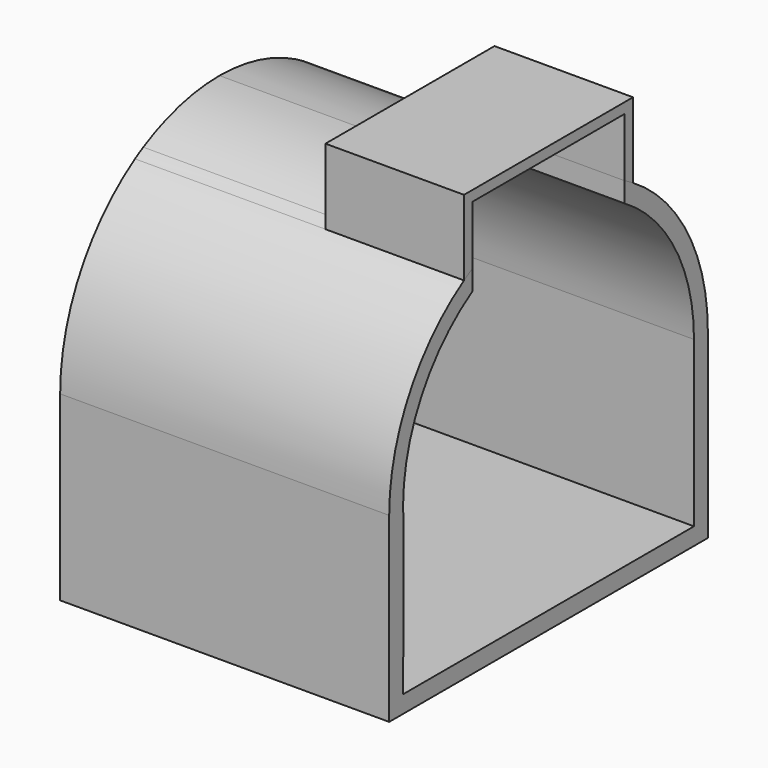
from build123d import *

# Parameters (mm, degrees)
F0_W     = 5
F0_H     = 5
F1_DEPTH = 95
F2_DEPTH = 40
F3_DEPTH = 40


with BuildPart() as f1:
    # F0 (on Right) → F1 (new body)
    with BuildSketch(Plane.YZ):
        with BuildLine():
            ThreePointArc((25.096296508, 5), (29.4604368108, 2.3000707554), (34.0479212009, 0))
            Line((34.0479212009, 0), (57.5, 0))
            ThreePointArc((57.5, 0), (46.0435607626, 1.2652461702), (35.139320225, 5))
            Line((35.139320225, 5), (25.096296508, 5))
        make_face()
        with Locations((112.5, 2.5)):
            Rectangle(F0_W, F0_H)
        with BuildLine():
            Line((5.0251261048, 5), (5, 0))
            Line((5, 0), (34.0479212009, 0))
            ThreePointArc((34.0479212009, 0), (29.4604368108, 2.3000707554), (25.096296508, 5))
            Line((25.096296508, 5), (5.0251261048, 5))
        make_face()
        with BuildLine():
            ThreePointArc((79.860679775, 5), (68.9564392374, 1.2652461702), (57.5, 0))
            Line((57.5, 0), (80.9520787991, 0))
            ThreePointArc((80.9520787991, 0), (85.5395631892, 2.3000707554), (89.903703492, 5))
            Line((89.903703492, 5), (79.860679775, 5))
        make_face()
        with BuildLine():
            ThreePointArc((89.903703492, 5), (85.5395631892, 2.3000707554), (80.9520787991, 0))
            Line((80.9520787991, 0), (110, 0))
            Line((110, 0), (110, 5))
            Line((110, 5), (89.903703492, 5))
        make_face()
        with BuildLine():
            ThreePointArc((79.860679775, 5), (68.9564392374, 1.2652461702), (57.5, 0))
            Line((57.5, 0), (80.9520787991, 0))
            ThreePointArc((80.9520787991, 0), (85.5395631892, 2.3000707554), (89.903703492, 5))
            Line((89.903703492, 5), (79.860679775, 5))
        make_face()
        with BuildLine():
            Line((110, 29.0479212009), (110, 5))
            Line((110, 5), (115, 5))
            Line((115, 5), (115, 52.5))
            ThreePointArc((115, 52.5), (113.736109396, 40.5104211917), (110, 29.0479212009))
        make_face()
        with BuildLine():
            Line((0, 52.5), (0, 5))
            Line((0, 5), (5.0251261048, 5))
            Line((5.0251261048, 5), (5.1443614689, 28.7273873123))
            ThreePointArc((5.1443614689, 28.7273873123), (1.3008042071, 40.3385694826), (0, 52.5))
        make_face()
        Polygon((0, 5), (0, 0), (5, 0), (5.0251261048, 5), align=None)
        with BuildLine():
            ThreePointArc((35.139320225, 5), (46.0435607626, 1.2652461702), (57.5, 0))
            ThreePointArc((57.5, 0), (68.9564392374, 1.2652461702), (79.860679775, 5))
            Line((79.860679775, 5), (35.139320225, 5))
        make_face()
        with BuildLine():
            ThreePointArc((27, 101.2442304278), (7.2008946402, 80.3612634315), (0, 52.5))
            ThreePointArc((0, 52.5), (1.3008042071, 40.3385694826), (5.1443614689, 28.7273873123))
            Line((5.1443614689, 28.7273873123), (5.2386949818, 47.4994002563))
            ThreePointArc((5.2386949818, 47.4994002563), (10.5049496909, 75.9033169967), (30, 97.22135955))
            Line((30, 97.22135955), (30, 102.9975246918))
            ThreePointArc((30, 102.9975246918), (28.4867528499, 102.1435442913), (27, 101.2442304278))
        make_face()
        with BuildLine():
            ThreePointArc((85, 97.22135955), (103.3257569496, 78.1173769149), (110, 52.5))
            Line((110, 52.5), (110, 29.0479212009))
            ThreePointArc((110, 29.0479212009), (113.736109396, 40.5104211917), (115, 52.5))
            ThreePointArc((115, 52.5), (107.7991053598, 80.3612634315), (88, 101.2442304278))
            ThreePointArc((88, 101.2442304278), (86.5132471501, 102.1435442913), (85, 102.9975246918))
            Line((85, 102.9975246918), (85, 97.22135955))
        make_face()
        with BuildLine():
            ThreePointArc((57.5, 110), (43.311231022, 108.2218882926), (30, 102.9975246918))
            Line((30, 102.9975246918), (43.1385933837, 102.9975246918))
            ThreePointArc((43.1385933837, 102.9975246918), (57.5, 105), (71.8614066163, 102.9975246918))
            Line((71.8614066163, 102.9975246918), (85, 102.9975246918))
            ThreePointArc((85, 102.9975246918), (71.688768978, 108.2218882926), (57.5, 110))
        make_face()
        with BuildLine():
            Line((43.1385933837, 102.9975246918), (30, 102.9975246918))
            Line((30, 102.9975246918), (30, 97.22135955))
            ThreePointArc((30, 97.22135955), (36.3709829403, 100.5605309801), (43.1385933837, 102.9975246918))
        make_face()
        with BuildLine():
            ThreePointArc((71.8614066163, 102.9975246918), (78.6290170597, 100.5605309801), (85, 97.22135955))
            Line((85, 97.22135955), (85, 102.9975246918))
            Line((85, 102.9975246918), (71.8614066163, 102.9975246918))
        make_face()
    extrude(amount=-F1_DEPTH)

    # F0 (on Right) → F3 (cut)
    with BuildSketch(Plane.YZ):
        with BuildLine():
            ThreePointArc((57.5, 110), (43.311231022, 108.2218882926), (30, 102.9975246918))
            Line((30, 102.9975246918), (43.1385933837, 102.9975246918))
            ThreePointArc((43.1385933837, 102.9975246918), (57.5, 105), (71.8614066163, 102.9975246918))
            Line((71.8614066163, 102.9975246918), (85, 102.9975246918))
            ThreePointArc((85, 102.9975246918), (71.688768978, 108.2218882926), (57.5, 110))
        make_face()
        with BuildLine():
            Line((43.1385933837, 102.9975246918), (30, 102.9975246918))
            Line((30, 102.9975246918), (30, 97.22135955))
            ThreePointArc((30, 97.22135955), (36.3709829403, 100.5605309801), (43.1385933837, 102.9975246918))
        make_face()
        with BuildLine():
            ThreePointArc((71.8614066163, 102.9975246918), (78.6290170597, 100.5605309801), (85, 97.22135955))
            Line((85, 97.22135955), (85, 102.9975246918))
            Line((85, 102.9975246918), (71.8614066163, 102.9975246918))
        make_face()
    extrude(amount=-F3_DEPTH, mode=Mode.SUBTRACT)


with BuildPart() as f2:
    # F0 (on Right) → F2 (new body)
    with BuildSketch(Plane.YZ):
        Polygon((27, 123), (27, 110), (30, 110), (30, 120), (85, 120), (85, 110), (88, 110), (88, 123), align=None)
        with BuildLine():
            Line((27, 110), (27, 101.2442304278))
            ThreePointArc((27, 101.2442304278), (28.4867528499, 102.1435442913), (30, 102.9975246918))
            Line((30, 102.9975246918), (30, 110))
            Line((30, 110), (27, 110))
        make_face()
        with BuildLine():
            Line((88, 110), (85, 110))
            Line((85, 110), (85, 102.9975246918))
            ThreePointArc((85, 102.9975246918), (86.5132471501, 102.1435442913), (88, 101.2442304278))
            Line((88, 101.2442304278), (88, 110))
        make_face()
    extrude(amount=-F2_DEPTH)


solid = Compound([f1.part, f2.part])
